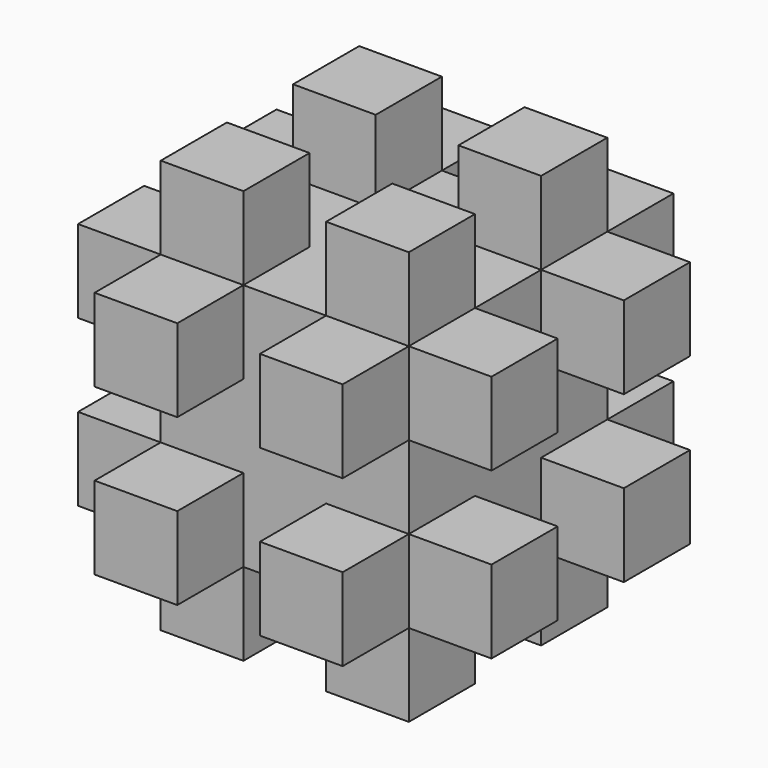
from build123d import *

# Parameters (mm, degrees)
F0_W      = 90
F0_H      = 90
F1_DEPTH  = 90
F2_W      = 30
F2_H      = 30
F3_DEPTH  = 30
F4_W      = 30
F4_H      = 30
F5_DEPTH  = 30
F6_W      = 30
F6_H      = 30
F7_DEPTH  = 30
F8_W      = 30
F8_H      = 30
F9_DEPTH  = 30
F10_W     = 30
F10_H     = 30
F11_DEPTH = 30
F12_W     = 30
F12_H     = 30
F13_DEPTH = 30


with BuildPart() as f1:
    # F0 (on Top) → F1 (new body)
    with BuildSketch(Plane.XY):
        Rectangle(F0_W, F0_H)
    extrude(amount=F1_DEPTH)

    # F2 (on face) → F3 (join)
    with BuildSketch(Plane(origin=(0, 0, 0), x_dir=(1, 0, 0), z_dir=(0, 0, -1))):
        with Locations((-30, 30)):
            Rectangle(F2_W, F2_H)
        with Locations((30, 30)):
            Rectangle(F2_W, F2_H)
        with Locations((-30, -30)):
            Rectangle(F2_W, F2_H)
        with Locations((30, -30)):
            Rectangle(F2_W, F2_H)
    extrude(amount=F3_DEPTH)

    # F4 (on face) → F5 (join)
    with BuildSketch(Plane(origin=(0, 45, 0), x_dir=(-1, 0, 0), z_dir=(0, 1, 0))):
        with Locations((30, 75)):
            Rectangle(F4_W, F4_H)
        with Locations((-30, 75)):
            Rectangle(F4_W, F4_H)
        with Locations((-30, 15)):
            Rectangle(F4_W, F4_H)
        with Locations((30, 15)):
            Rectangle(F4_W, F4_H)
    extrude(amount=F5_DEPTH)

    # F6 (on face) → F7 (join)
    with BuildSketch(Plane(origin=(-45, 0, 0), x_dir=(0, -1, 0), z_dir=(-1, 0, 0))):
        with Locations((-30, 75)):
            Rectangle(F6_W, F6_H)
        with Locations((-30, 15)):
            Rectangle(F6_W, F6_H)
        with Locations((30, 15)):
            Rectangle(F6_W, F6_H)
        with Locations((30, 75)):
            Rectangle(F6_W, F6_H)
    extrude(amount=F7_DEPTH)

    # F8 (on face) → F9 (join)
    with BuildSketch(Plane.YZ.offset(45)):
        with Locations((-30, 75)):
            Rectangle(F8_W, F8_H)
        with Locations((-30, 15)):
            Rectangle(F8_W, F8_H)
        with Locations((30, 15)):
            Rectangle(F8_W, F8_H)
        with Locations((30, 75)):
            Rectangle(F8_W, F8_H)
    extrude(amount=F9_DEPTH)

    # F10 (on face) → F11 (join)
    with BuildSketch(Plane.XZ.offset(45)):
        with Locations((-30, 75)):
            Rectangle(F10_W, F10_H)
        with Locations((-30, 15)):
            Rectangle(F10_W, F10_H)
        with Locations((30, 15)):
            Rectangle(F10_W, F10_H)
        with Locations((30, 75)):
            Rectangle(F10_W, F10_H)
    extrude(amount=F11_DEPTH)

    # F12 (on face) → F13 (join)
    with BuildSketch(Plane.XY.offset(90)):
        with Locations((-30, 30)):
            Rectangle(F12_W, F12_H)
        with Locations((-30, -30)):
            Rectangle(F12_W, F12_H)
        with Locations((30, -30)):
            Rectangle(F12_W, F12_H)
        with Locations((30, 30)):
            Rectangle(F12_W, F12_H)
    extrude(amount=F13_DEPTH)


solid = f1.part
